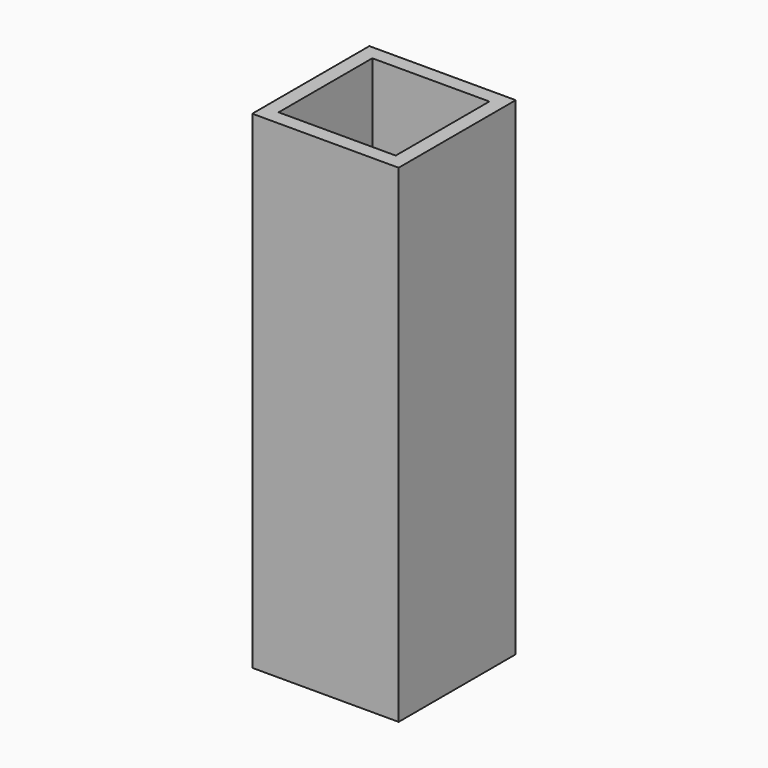
from build123d import *

# Parameters (mm, degrees)
SKETCH_W   = 15
SKETCH_H   = 15
SKETCH_W_2 = 12
SKETCH_H_2 = 12
PAD_DEPTH  = 50


with BuildPart() as part:
    # Sketch → Pad (new body)
    with BuildSketch(Plane.XY):
        Rectangle(SKETCH_W, SKETCH_H)
        Rectangle(SKETCH_W_2, SKETCH_H_2, mode=Mode.SUBTRACT)
    extrude(amount=PAD_DEPTH)


solid = part.part
